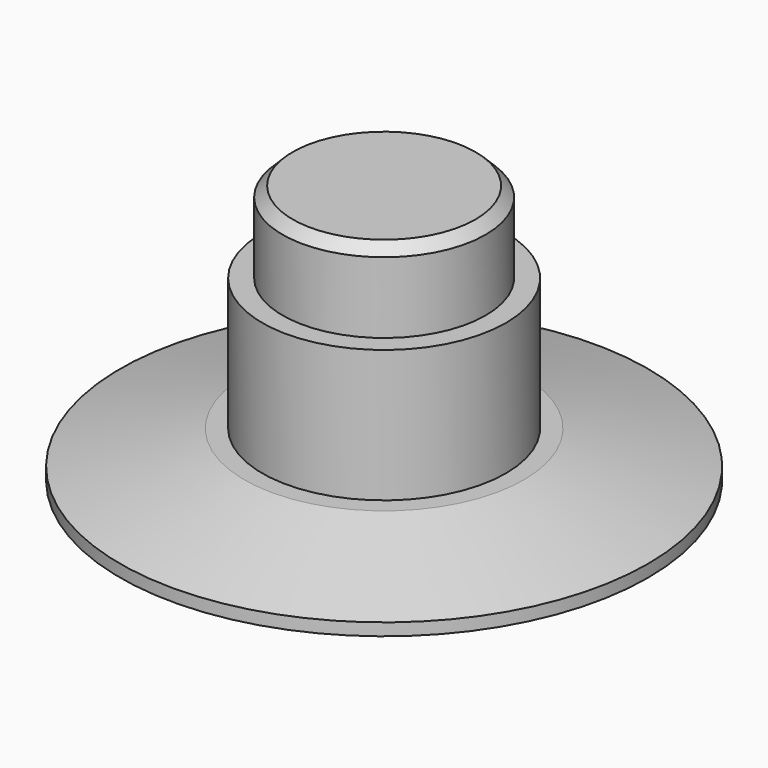
from build123d import *

# Parameters (mm, degrees)
F0_R     = 2.5
F1_DEPTH = 3.375
F0_R_2   = 3
F2_DEPTH = 1.375
F0_R_3   = 6.5
F3_DEPTH = 0.875
F4_DEPTH = 0.25
F7_DEPTH = 2.76
F8_DEPTH = 2.76
F9_SIZE  = 0.25


with BuildPart() as f1:
    # F0 (on Top) → F1 (new body)
    with BuildSketch(Plane.XY):
        Circle(F0_R)
    extrude(amount=F1_DEPTH)

    # F0 (on Top) → F2 (join)
    with BuildSketch(Plane.XY):
        Circle(F0_R_2)
        Circle(F0_R, mode=Mode.SUBTRACT)
    extrude(amount=F2_DEPTH)

    # F0 (on Top) → F3 (join)
    with BuildSketch(Plane.XY):
        Circle(F0_R_3)
        Circle(F0_R_2, mode=Mode.SUBTRACT)
    extrude(amount=F3_DEPTH)

    # F0 (on Top) → F4 (join)
    with BuildSketch(Plane.XY):
        Circle(F0_R_3)
        Circle(F0_R_2, mode=Mode.SUBTRACT)
        Circle(F0_R_2)
        Circle(F0_R, mode=Mode.SUBTRACT)
        Circle(F0_R)
    extrude(amount=-F4_DEPTH)

    # F5 (on Right) → F6 (revolve, cut)
    with BuildSketch(Plane.YZ):
        Polygon((-6.6943974234, 0.9619678603), (-6.6943974234, 0), (-3.1168663409, 0.9619678603), align=None)
    revolve(axis=Axis((0, 0, 0.9346584557), (0, 0, 1)), mode=Mode.SUBTRACT)

    # F7 (add): a face of the model
    f7_faces = [f1.faces().sort_by_distance(p)[0] for p in [
        (-2.9151471863, 0, 1.375),
    ]]
    extrude(f7_faces, amount=F7_DEPTH)

    # F8 (add): a face of the model
    f8_faces = [f1.faces().sort_by_distance(p)[0] for p in [
        (0, 0, 3.375),
    ]]
    extrude(f8_faces, amount=F8_DEPTH)

    # F9
    f9_edges = [f1.edges().sort_by_distance(p)[0] for p in [
        (-2.5, 0, 6.135),
    ]]
    chamfer(f9_edges, length=F9_SIZE)


solid = f1.part
